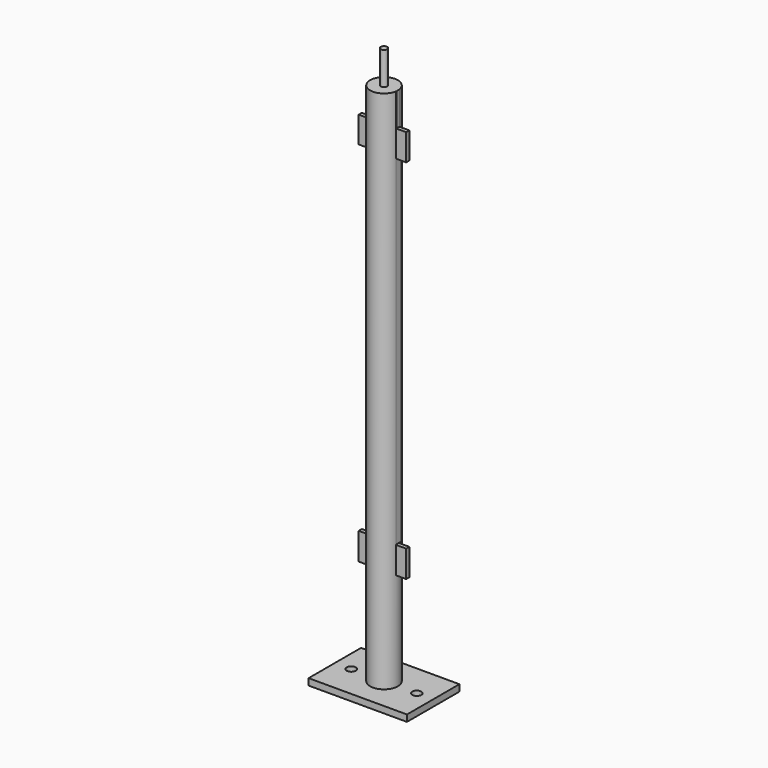
from build123d import *

# Parameters (mm, degrees)
F0_R      = 21.2
F1_DEPTH  = 800
F2_R      = 5
F3_DEPTH  = 50
F4_W      = 150
F4_H      = 100
F5_DEPTH  = 10
F7_D      = 14
F9_DEPTH  = 650
F10_W     = 18.732145
F10_H     = 50
F10_W_2   = 18.157326
F11_DEPTH = 25
F12_W     = 15.213338
F12_H     = 518.766022
F13_DEPTH = 25


with BuildPart() as f1:
    # F0 (on Top) → F1 (new body)
    with BuildSketch(Plane.XY):
        Circle(F0_R)
    extrude(amount=F1_DEPTH)

    # F2 (on face) → F3 (join)
    with BuildSketch(Plane.XY.offset(800)):
        Circle(F2_R)
    extrude(amount=F3_DEPTH)

    # F4 (on face) → F5 (join)
    with BuildSketch(Plane(origin=(0, 0, 0), x_dir=(1, 0, 0), z_dir=(0, 0, -1))):
        Rectangle(F4_W, F4_H)
    extrude(amount=F5_DEPTH)

    # F7 (through all)
    with Locations(Plane(origin=(0, 0, -10), x_dir=(1, 0, 0), z_dir=(0, 0, -1))):
        with Locations((-50, 0), (50, 0)):
            Hole(F7_D / 2)

    # F8 (on face) → F9 (join)
    with BuildSketch(Plane.XY.offset(800)):
        Polygon((36.2, -3), (36.2, 0), (36.2, 3), (20.986662, 3), (20.986662, -3), align=None)
        Polygon((-36.2, 3), (-36.2, 0), (-36.2, -3), (-20.986662, -3), (-20.986662, 3), align=None)
    extrude(amount=-F9_DEPTH)

    # F10 (on face) → F11 (cut)
    with BuildSketch(Plane.XZ.offset(3)):
        with Locations((-30.352734, 775)):
            Rectangle(F10_W, F10_H)
        with Locations((30.178081, 775)):
            Rectangle(F10_W_2, F10_H)
    extrude(amount=-F11_DEPTH, mode=Mode.SUBTRACT)

    # F12 (on face) → F13 (cut)
    with BuildSketch(Plane.XZ.offset(3)):
        with Locations((-28.593331, 450.616989)):
            Rectangle(F12_W, F12_H)
        Polygon((39.251614, 190.913462), (39.251614, 709.418058), (20.16026, 709.418058), (20.16026, 190.913462), (36.762826, 190.913462), align=None)
    extrude(amount=-F13_DEPTH, mode=Mode.SUBTRACT)


solid = f1.part
